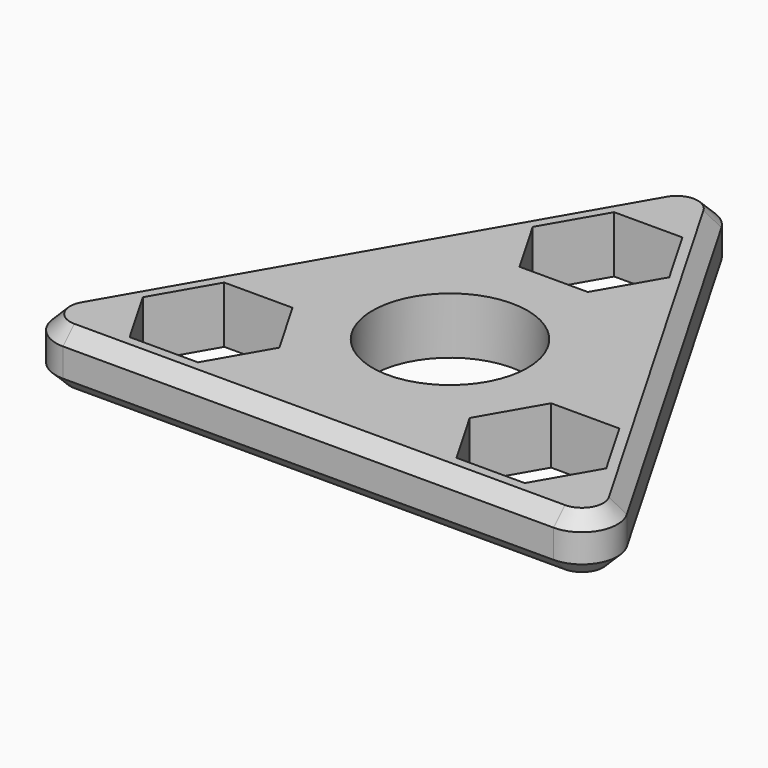
from build123d import *

# Parameters (mm, degrees)
F0_R     = 10.95
F1_DEPTH = 4
F2_SIZE  = 2


with BuildPart() as f1:
    # F0 (on Top) → F1 (new body, symmetric)
    with BuildSketch(Plane.XY):
        with BuildLine():
            Line((38.971143, -17.5), (4.330127, 42.5))
            ThreePointArc((4.330127, 42.5), (0, 45), (-4.330127, 42.5))
            Line((-4.330127, 42.5), (-38.971143, -17.5))
            ThreePointArc((-38.971143, -17.5), (-38.971143, -22.5), (-34.641016, -25))
            Line((-34.641016, -25), (34.641016, -25))
            ThreePointArc((34.641016, -25), (38.971143, -22.5), (38.971143, -17.5))
        make_face()
        Polygon((-18.258702, -21.675), (-27.900452, -21.675), (-32.721327, -13.325), (-27.900452, -4.975), (-18.258702, -4.975), (-13.437828, -13.325), align=None, mode=Mode.SUBTRACT)
        Circle(F0_R, mode=Mode.SUBTRACT)
        Polygon((27.900452, -4.975), (32.721327, -13.325), (27.900452, -21.675), (18.258702, -21.675), (13.437828, -13.325), (18.258702, -4.975), align=None, mode=Mode.SUBTRACT)
        Polygon((9.641749, 26.65), (4.820875, 18.3), (-4.820875, 18.3), (-9.641749, 26.65), (-4.820875, 35), (4.820875, 35), align=None, mode=Mode.SUBTRACT)
    extrude(amount=F1_DEPTH, both=True)

    # F2
    f2_edges = [f1.edges().sort_by_distance(p)[0] for p in [
        (-21.650635, 12.5, 4),
        (21.650635, 12.5, 4),
        (-21.650635, 12.5, -4),
    ]]
    chamfer(f2_edges, length=F2_SIZE)


solid = f1.part
